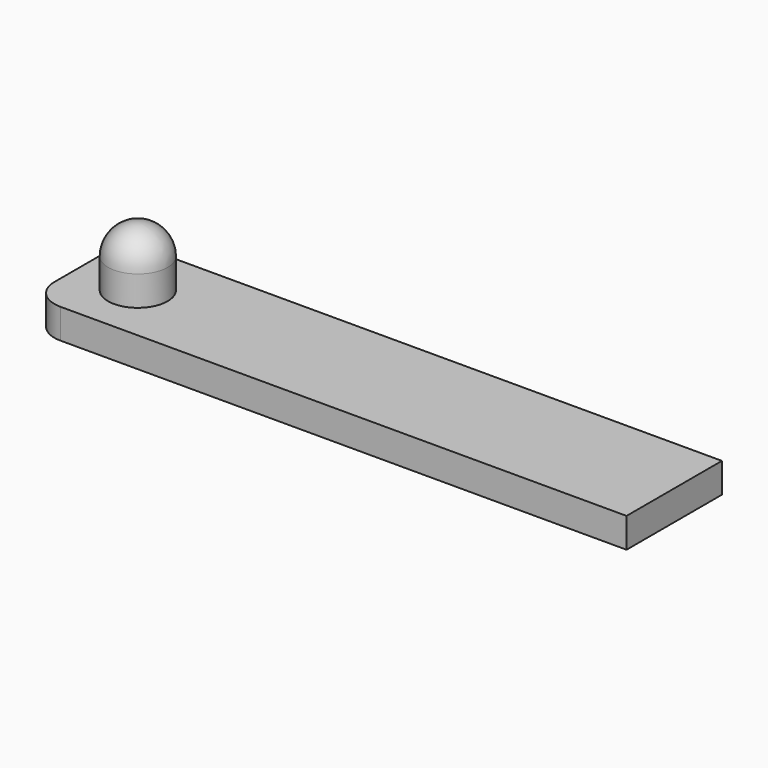
from build123d import *

# Parameters (mm, degrees)
F0_W     = 100
F0_H     = 20
F1_DEPTH = 5
F2_R     = 5
F3_DEPTH = 10
F4_R     = 5
F5_R     = 5


with BuildPart() as f1:
    # F0 (on Top) → F1 (new body)
    with BuildSketch(Plane.XY):
        with Locations((40, 0)):
            Rectangle(F0_W, F0_H)
    extrude(amount=F1_DEPTH)

    # F2 (on face) → F3 (join)
    with BuildSketch(Plane.XY.offset(5)):
        Circle(F2_R)
    extrude(amount=F3_DEPTH)

    # F4
    f4_edges = [f1.edges().sort_by_distance(p)[0] for p in [
        (-10, -10, 2.5),
        (-10, 10, 2.5),
    ]]
    fillet(f4_edges, radius=F4_R)

    # F5
    f5_edges = [f1.edges().sort_by_distance(p)[0] for p in [
        (-5, 0, 15),
    ]]
    fillet(f5_edges, radius=F5_R)


solid = f1.part
